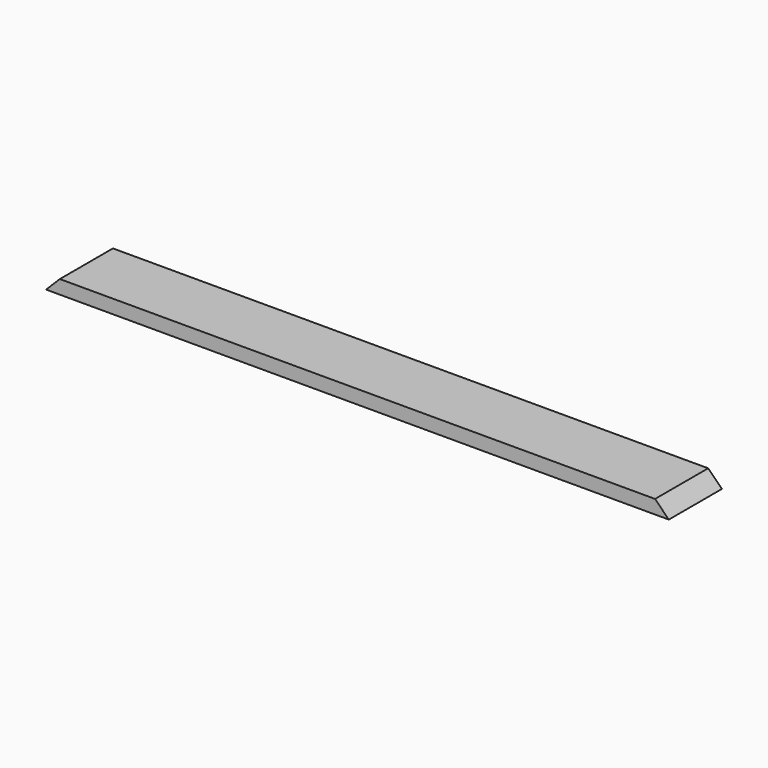
from build123d import *

# Parameters (mm, degrees)
F0_W     = 1727.2
F0_H     = 184.15
F1_DEPTH = 38.1
F3_DEPTH = 254


with BuildPart() as f1:
    # F0 (on Top) → F1 (new body)
    with BuildSketch(Plane.XY):
        with Locations((863.6, 92.075)):
            Rectangle(F0_W, F0_H)
    extrude(amount=F1_DEPTH)

    # F2 (on face) → F3 (cut)
    with BuildSketch(Plane.XZ):
        Polygon((38.1, 38.1), (0, 38.1), (0, 0), align=None)
        Polygon((1689.1, 38.1), (1727.2, 0), (1727.2, 38.1), align=None)
    extrude(amount=-F3_DEPTH, mode=Mode.SUBTRACT)


solid = f1.part
